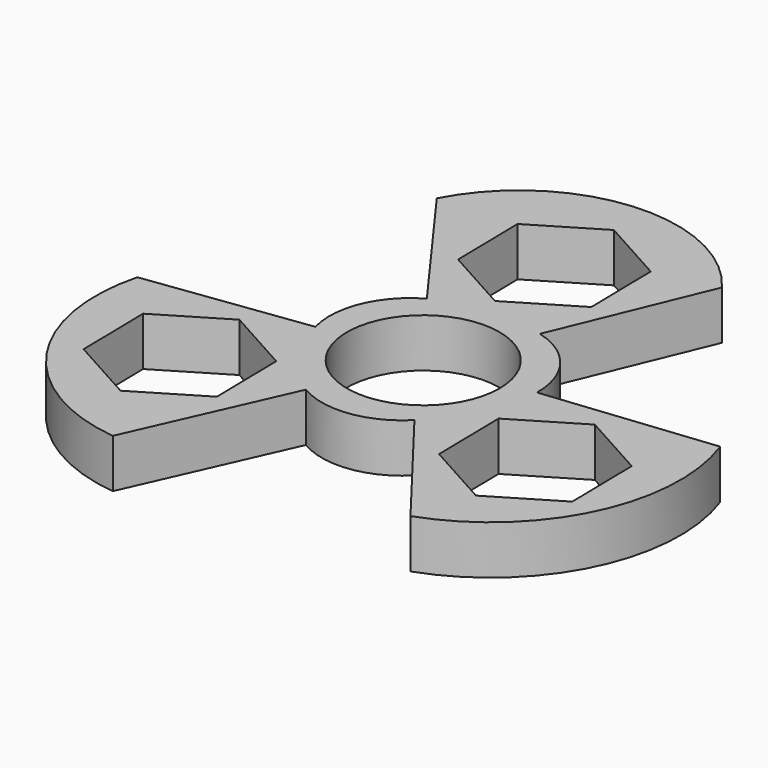
from build123d import *

# Parameters (mm, degrees)
F0_R     = 10.95
F1_DEPTH = 7


with BuildPart() as f1:
    # F0 (on Top) → F1 (new body)
    with BuildSketch(Plane.XY):
        with BuildLine():
            Line((-23.389, 31.65935), (-9.034446, 11.935534))
            ThreePointArc((-9.034446, 11.935534), (-14.035862, 6.303428), (-14.513284, -1.213675))
            Line((-14.513284, -1.213675), (-37.633978, -4.281824))
            ThreePointArc((-37.633978, -4.281824), (-33.950686, -25.19351), (-15.723301, -36.085143))
            Line((-15.723301, -36.085143), (-5.819252, -13.791827))
            ThreePointArc((-5.819252, -13.791827), (1.559002, -15.307127), (8.307715, -11.962035))
            Line((8.307715, -11.962035), (22.525157, -30.451069))
            ThreePointArc((22.525157, -30.451069), (38.052217, -16.452824), (39.112301, 4.425794))
            Line((39.112301, 4.425794), (14.853699, 1.856293))
            ThreePointArc((14.853699, 1.856293), (12.47686, 9.003699), (6.205568, 13.17571))
            Line((6.205568, 13.17571), (15.108821, 34.732893))
            ThreePointArc((15.108821, 34.732893), (-4.991344, 43.858552), (-23.389, 31.65935))
        make_face()
        Polygon((-12.54648, -21.374515), (-21.893152, -26.982519), (-31.423163, -21.692066), (-31.606501, -10.793608), (-22.259828, -5.185603), (-12.729818, -10.476057), align=None, mode=Mode.SUBTRACT)
        Circle(F0_R, mode=Mode.SUBTRACT)
        Polygon((24.784113, -0.178313), (34.314123, -5.468767), (34.497461, -16.367225), (25.150789, -21.975229), (15.620778, -16.684775), (15.43744, -5.786317), align=None, mode=Mode.SUBTRACT)
        Polygon((6.455712, 32.768836), (6.63905, 21.870378), (-2.707623, 16.262374), (-12.237633, 21.552828), (-12.420971, 32.451286), (-3.074298, 38.05929), align=None, mode=Mode.SUBTRACT)
    extrude(amount=F1_DEPTH)


solid = f1.part
